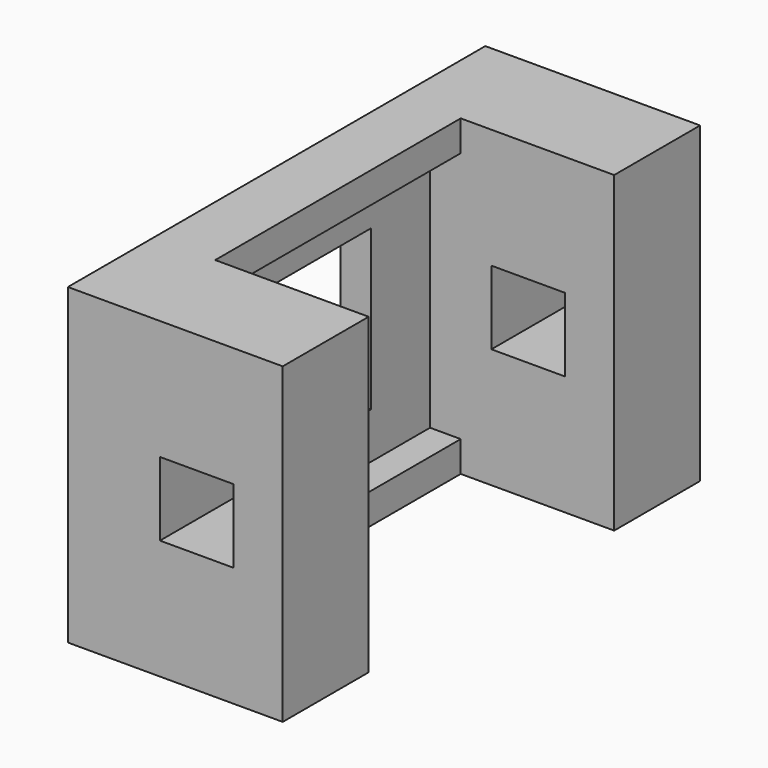
from build123d import *

# Parameters (mm, degrees)
SKETCH049_W      = 1
SKETCH049_H      = 1
EXTRUDE052_DEPTH = 8.5
SKETCH048_W      = 2.4
SKETCH048_H      = 2.4
EXTRUDE051_DEPTH = 8.5
SKETCH046_W      = 5.2
SKETCH046_H      = 5.2
EXTRUDE049_DEPTH = 1
SKETCH047_W      = 10
SKETCH047_H      = 10.2
EXTRUDE050_DEPTH = 8
SKETCH045_W      = 7
SKETCH045_H      = 10.2
EXTRUDE048_DEPTH = 8.5


with BuildPart() as extrude052:
    # Sketch049 → Extrude052 (new body, symmetric)
    with BuildSketch(Plane.XZ):
        with Locations((1.5, -4.6)):
            Rectangle(SKETCH049_W, SKETCH049_H)
        with Locations((1.5, 4.6)):
            Rectangle(SKETCH049_W, SKETCH049_H)
    extrude(amount=EXTRUDE052_DEPTH, both=True)


with BuildPart() as obj1:
    # Sketch048 → Extrude051 (new body, symmetric)
    with BuildSketch(Plane.XZ):
        with Locations((4.2, 0)):
            Rectangle(SKETCH048_W, SKETCH048_H)
    extrude(amount=EXTRUDE051_DEPTH, both=True)


with BuildPart() as obj2:
    # Sketch046 → Extrude049 (new body)
    with BuildSketch(Plane.YZ):
        Rectangle(SKETCH046_W, SKETCH046_H)
    extrude(amount=EXTRUDE049_DEPTH)


with BuildPart() as obj3:
    # Sketch047 → Extrude050 (new body)
    with BuildSketch(Plane.YZ):
        Rectangle(SKETCH047_W, SKETCH047_H)
    extrude(amount=EXTRUDE050_DEPTH)


with BuildPart() as obj3_1:
    # Extrude050 placement: moved
    add(obj3.part.moved(Location((1, 0, 0))))


with BuildPart() as obj4:
    # Sketch045 → Extrude048 (new body, symmetric)
    with BuildSketch(Plane.XZ):
        with Locations((3.5, 0)):
            Rectangle(SKETCH045_W, SKETCH045_H)
    extrude(amount=EXTRUDE048_DEPTH, both=True)

    # Cut030: cut obj3
    add(obj3_1.part, mode=Mode.SUBTRACT)

    # Cut031: cut obj2
    add(obj2.part, mode=Mode.SUBTRACT)

    # Cut032: cut obj1
    add(obj1.part, mode=Mode.SUBTRACT)

    # Fusion001: union Extrude052
    add(extrude052.part)


solid = obj4.part
